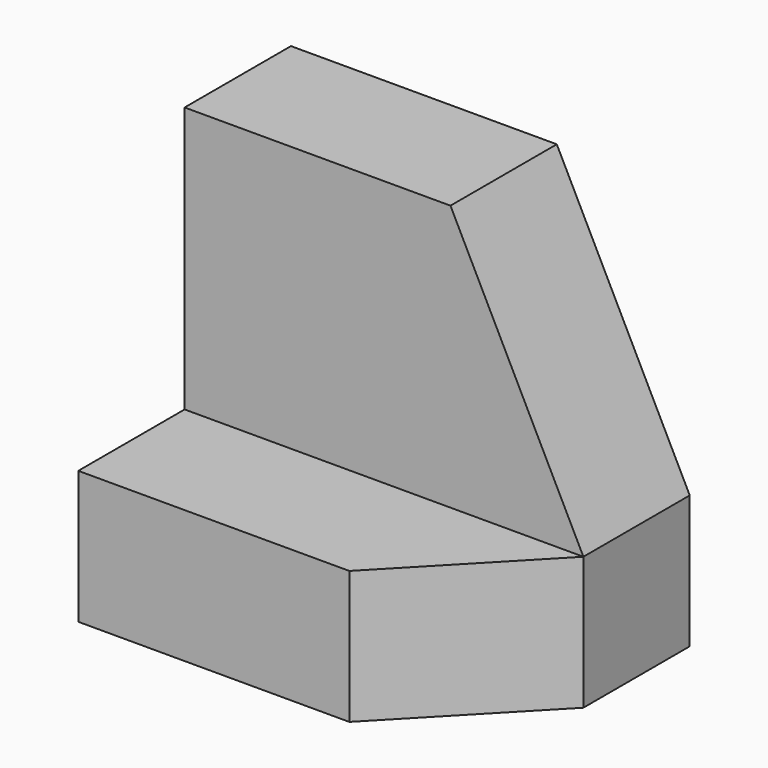
from build123d import *

# Parameters (mm, degrees)
F2_DEPTH = 25.4
F4_DEPTH = 25.4
F5_W     = 12.7
F5_H     = 25.4
F6_DEPTH = 38.1
F8_DEPTH = 25.4


with BuildPart() as f2:
    # F1 (on face) → F2 (new body)
    with BuildSketch(Plane.XZ):
        Polygon((38.1, 38.1), (0, 38.1), (0, 0), (38.1, 0), (38.1, 13.111571), align=None)
    extrude(amount=F2_DEPTH)

    # F3 (on face) → F4 (cut)
    with BuildSketch(Plane.XZ.offset(25.4)):
        Polygon((25.4, 38.1), (38.1, 12.7), (38.1, 38.1), align=None)
    extrude(amount=-F4_DEPTH, mode=Mode.SUBTRACT)

    # F5 (on face) → F6 (cut)
    with BuildSketch(Plane(origin=(0, 0, 0), x_dir=(0, -1, 0), z_dir=(-1, 0, 0))):
        with Locations((19.05, 25.4)):
            Rectangle(F5_W, F5_H)
    extrude(amount=-F6_DEPTH, mode=Mode.SUBTRACT)

    # F7 (on face) → F8 (cut)
    with BuildSketch(Plane.XY.offset(12.7)):
        Polygon((38.1, -25.4), (38.1, -12.7), (25.894709, -25.4), align=None)
    extrude(amount=-F8_DEPTH, mode=Mode.SUBTRACT)


solid = f2.part
